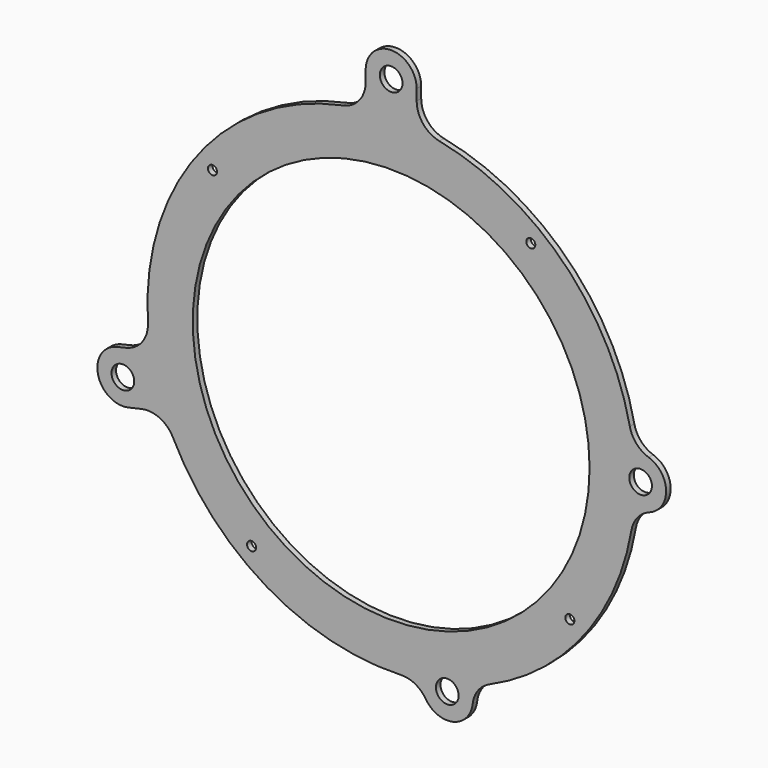
from build123d import *

# Parameters (mm, degrees)
F0_R     = 1.6
F0_R_2   = 4
F0_R_3   = 70
F1_DEPTH = 2


with BuildPart() as f1:
    # F0 (on Front) → F1 (new body)
    with BuildSketch(Plane.XZ):
        with BuildLine():
            ThreePointArc((-9, 94.10101), (-11.26076, 87.768224), (-17.020833, 84.298821))
            ThreePointArc((-17.020833, 84.298821), (-68.26278, 52.308631), (-85.824582, -5.490093))
            ThreePointArc((-85.824582, -5.490093), (-87.783292, -12.100517), (-93.554674, -15.872176))
            Line((-93.554674, -15.872176), (-96.68529, -16.594936))
            ThreePointArc((-96.68529, -16.594936), (-103.430062, -27.388826), (-92.636171, -34.133597))
            Line((-92.636171, -34.133597), (-88.158897, -33.099937))
            ThreePointArc((-88.158897, -33.099937), (-81.644155, -33.798871), (-76.960492, -38.380759))
            ThreePointArc((-76.960492, -38.380759), (-43.811788, -74.003562), (3.363209, -85.934212))
            ThreePointArc((3.363209, -85.934212), (8.399158, -87.070767), (12.197129, -90.567617))
            ThreePointArc((12.197129, -90.567617), (21.820252, -94.513896), (28.739523, -86.748504))
            ThreePointArc((28.739523, -86.748504), (30.620199, -81.940636), (34.648247, -78.711492))
            ThreePointArc((34.648247, -78.711492), (67.767506, -52.948703), (84.754813, -14.581554))
            ThreePointArc((84.754813, -14.581554), (86.916204, -9.889194), (91.131064, -6.901753))
            ThreePointArc((91.131064, -6.901753), (96.998629, 1.693117), (90.834681, 10.077976))
            ThreePointArc((90.834681, 10.077976), (86.518129, 12.916502), (84.194293, 17.530572))
            ThreePointArc((84.194293, 17.530572), (60.626935, 60.994875), (17.020833, 84.298821))
            ThreePointArc((17.020833, 84.298821), (11.26076, 87.768224), (9, 94.10101))
            Line((9, 94.10101), (9, 98))
            ThreePointArc((9, 98), (0, 107), (-9, 98))
            Line((-9, 98), (-9, 94.10101))
        make_face()
        with Locations((-49.252918, -63.04086)):
            Circle(F0_R, mode=Mode.SUBTRACT)
        with Locations((-94.660731, -25.364266)):
            Circle(F0_R_2, mode=Mode.SUBTRACT)
        with Locations((19.795693, -85.744566)):
            Circle(F0_R_2, mode=Mode.SUBTRACT)
        with Locations((63.04086, -49.252918)):
            Circle(F0_R, mode=Mode.SUBTRACT)
        Circle(F0_R_3, mode=Mode.SUBTRACT)
        with Locations((88, 1.536046)):
            Circle(F0_R_2, mode=Mode.SUBTRACT)
        with Locations((-63.04086, 49.252918)):
            Circle(F0_R, mode=Mode.SUBTRACT)
        with Locations((0, 98)):
            Circle(F0_R_2, mode=Mode.SUBTRACT)
        with Locations((49.252918, 63.04086)):
            Circle(F0_R, mode=Mode.SUBTRACT)
    extrude(amount=F1_DEPTH)


solid = f1.part
